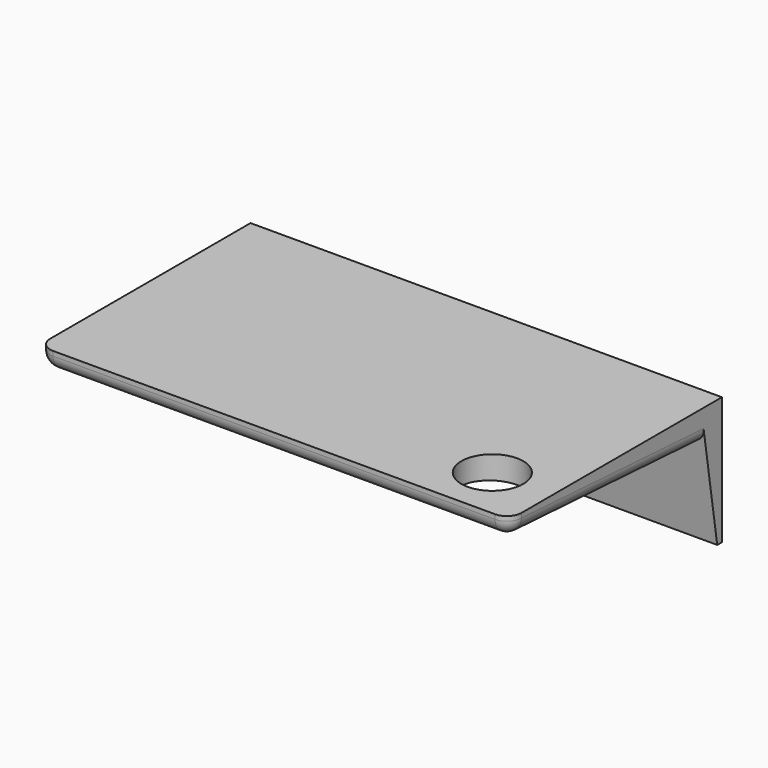
from build123d import *

# Parameters (mm, degrees)
F1_DEPTH = 80
F2_R     = 10.5
F3_DEPTH = 25
F4_R     = 5


with BuildPart() as f1:
    # F0 (on Right) → F1 (new body, symmetric)
    with BuildSketch(Plane.YZ):
        Polygon((55.125829, 22.787926), (-34.874171, 22.787926), (-34.874171, 16.537924), (48.125829, 11.537924), (53.125829, -20.545409), (55.125829, -20.545409), align=None)
    extrude(amount=F1_DEPTH, both=True)

    # F2 (on face) → F3 (cut)
    with BuildSketch(Plane.XY.offset(22.787926)):
        with Locations((59.5, -16.65573)):
            Circle(F2_R)
    extrude(amount=-F3_DEPTH, mode=Mode.SUBTRACT)

    # F4
    f4_edges = [f1.edges().sort_by_distance(p)[0] for p in [
        (80, -34.874171, 19.662925),
        (-80, -34.874171, 19.662925),
        (80, 6.625829, 14.037924),
        (-80, 6.625829, 14.037924),
        (0, -34.874171, 16.537924),
    ]]
    fillet(f4_edges, radius=F4_R)


solid = f1.part
